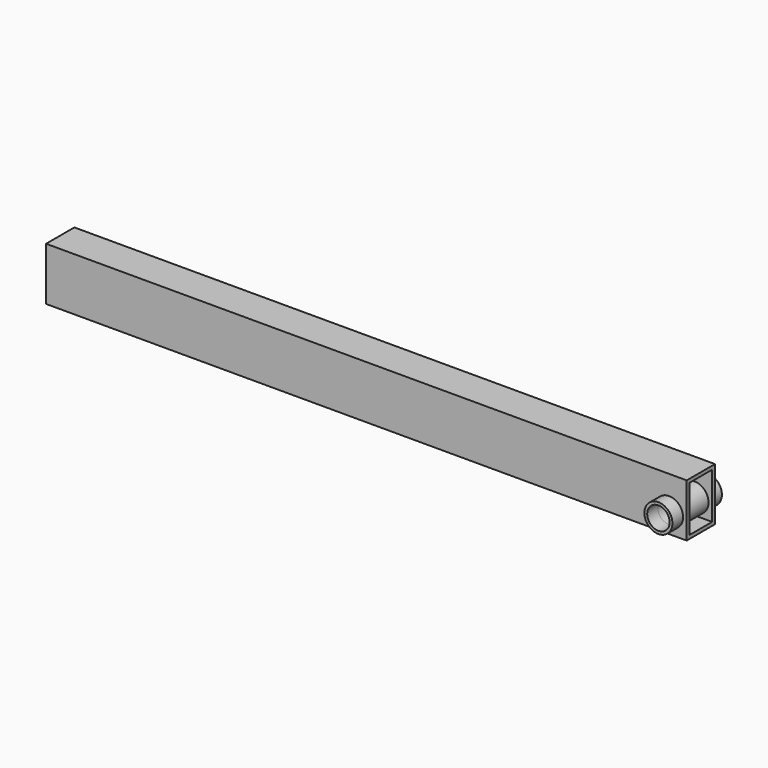
from build123d import *

# Parameters (mm, degrees)
F0_W        = 40
F0_H        = 60
F0_W_2      = 32
F0_H_2      = 52
F1_DEPTH    = 725
F2_R        = 15.9
F3_DEPTH    = 40
F4_R        = 15.875
F4_R_2      = 12.7
F5_DEPTH    = 55
F5_FACE_R   = 15.875
F5_FACE_R_2 = 12.7
F6_DEPTH    = 15


with BuildPart() as f1:
    # F0 (on Right) → F1 (new body)
    with BuildSketch(Plane.YZ):
        Rectangle(F0_W, F0_H)
        Rectangle(F0_W_2, F0_H_2, mode=Mode.SUBTRACT)
    extrude(amount=-F1_DEPTH)

    # F2 (on face) → F3 (cut)
    with BuildSketch(Plane.XZ.offset(20)):
        with Locations((-20, -8)):
            Circle(F2_R)
    extrude(amount=-F3_DEPTH, mode=Mode.SUBTRACT)


with BuildPart() as f5:
    # F4 (on face) → F5 (new body)
    with BuildSketch(Plane.XZ.offset(20)):
        with Locations((-20, -8)):
            Circle(F4_R)
        with Locations((-20, -8)):
            Circle(F4_R_2, mode=Mode.SUBTRACT)
    extrude(amount=-F5_DEPTH)

    # F5_face (on face) → F6 (join)
    with BuildSketch(Plane(origin=(-20, -20, -8), x_dir=(1, 0, 0), z_dir=(0, -1, 0))):
        Circle(F5_FACE_R)
        Circle(F5_FACE_R_2, mode=Mode.SUBTRACT)
    extrude(amount=F6_DEPTH)


solid = Compound([f1.part, f5.part])
